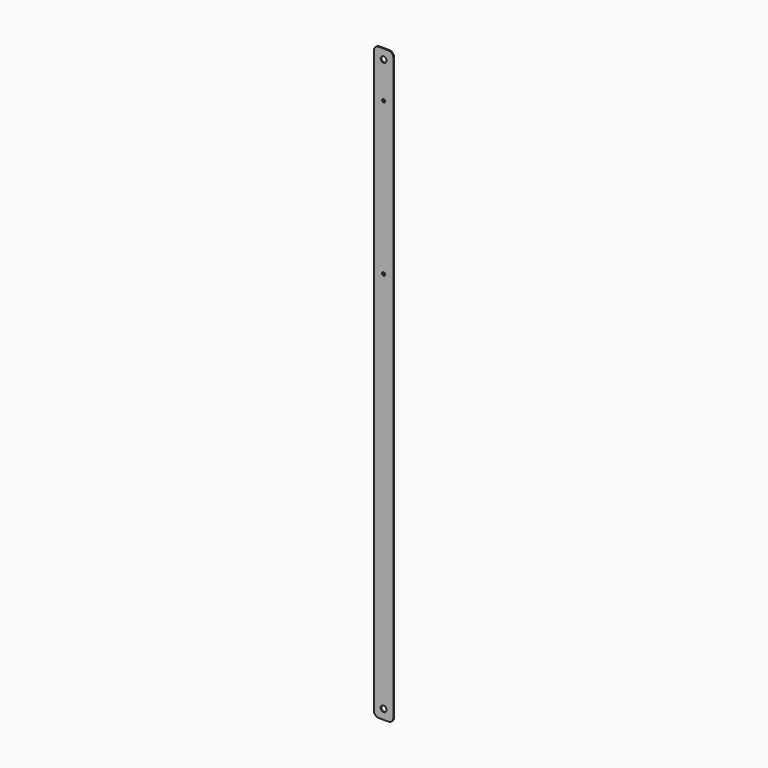
from build123d import *

# Parameters (mm, degrees)
F0_R     = 3
F0_R_2   = 1.6
F1_DEPTH = 1


with BuildPart() as f1:
    # F0 (on Front) → F1 (new body)
    with BuildSketch(Plane.XZ):
        with BuildLine():
            ThreePointArc((0, 5), (1.464466, 1.464466), (5, 0))
            Line((5, 0), (15, 0))
            ThreePointArc((15, 0), (18.535534, 1.464466), (20, 5))
            Line((20, 5), (20, 605))
            ThreePointArc((20, 605), (18.535534, 608.535534), (15, 610))
            Line((15, 610), (5, 610))
            ThreePointArc((5, 610), (1.464466, 608.535534), (0, 605))
            Line((0, 605), (0, 5))
        make_face()
        with Locations((10, 10)):
            Circle(F0_R, mode=Mode.SUBTRACT)
        with Locations((10, 405.2)):
            Circle(F0_R_2, mode=Mode.SUBTRACT)
        with Locations((10, 562.68)):
            Circle(F0_R_2, mode=Mode.SUBTRACT)
        with Locations((10, 600)):
            Circle(F0_R, mode=Mode.SUBTRACT)
    extrude(amount=F1_DEPTH)


solid = f1.part
